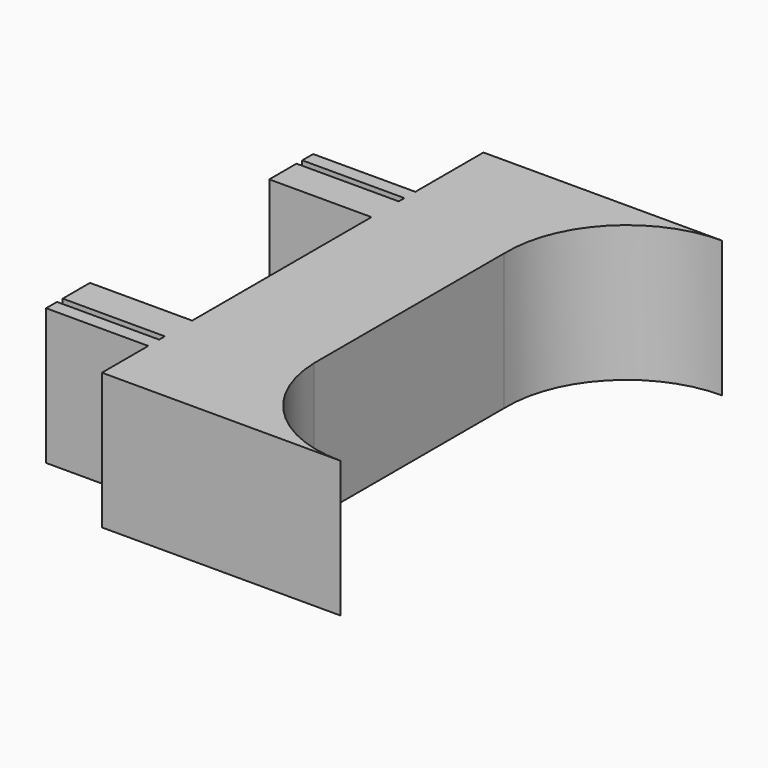
from build123d import *

# Parameters (mm, degrees)
F0_W     = 30
F0_H     = 10
F0_H_2   = 4
F1_DEPTH = 40
F2_W     = 38.356159
F2_H     = 69.845598
F3_DEPTH = 78.310288


with BuildPart() as f1:
    # F0 (on Top) → F1 (new body)
    with BuildSketch(Plane.XY):
        with BuildLine():
            Line((-35, 0), (35, 0))
            ThreePointArc((35, 0), (0, 35), (35, 70))
            Line((35, 70), (-35, 70))
            Line((-35, 70), (-35, 45))
            Line((-35, 45), (-35, 41))
            Line((-35, 41), (-35, 38.9))
            Line((-35, 38.9), (-35, 28.9))
            Line((-35, 28.9), (-35, 0))
        make_face()
        with BuildLine():
            Line((-35, -53), (-35, -70))
            Line((-35, -70), (35, -70))
            ThreePointArc((35, -70), (0, -35), (35, 0))
            Line((35, 0), (-35, 0))
            Line((-35, 0), (-35, -36.9))
            Line((-35, -36.9), (-35, -46.9))
            Line((-35, -46.9), (-35, -49))
            Line((-35, -49), (-35, -53))
        make_face()
        with Locations((-50, 33.9)):
            Rectangle(F0_W, F0_H)
        with Locations((-50, 43)):
            Rectangle(F0_W, F0_H_2)
        with Locations((-50, -51)):
            Rectangle(F0_W, F0_H_2)
        with Locations((-50, -41.9)):
            Rectangle(F0_W, F0_H)
    extrude(amount=F1_DEPTH)

    # F2 (on Top) → F3 (cut)
    with BuildSketch(Plane.XY):
        with Locations((19.178079, -1.085473)):
            Rectangle(F2_W, F2_H)
    extrude(amount=F3_DEPTH, mode=Mode.SUBTRACT)


solid = f1.part
